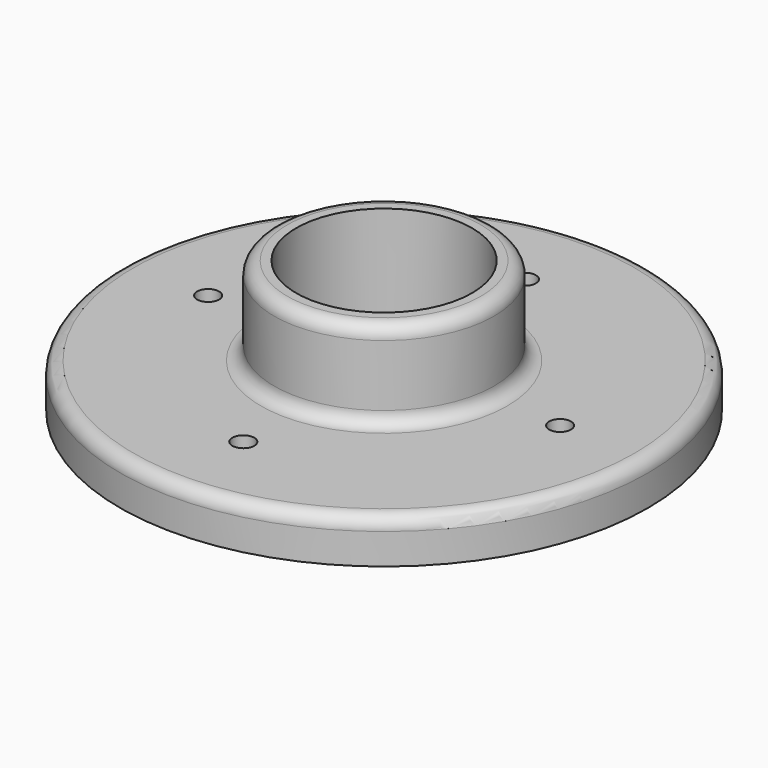
from build123d import *

# Parameters (mm, degrees)
F0_R     = 76.2
F0_R_2   = 25.4
F1_DEPTH = 12.7
F2_R     = 31.75
F2_R_2   = 25.4
F3_DEPTH = 38.1
F4_R     = 3.175
F5_DEPTH = 12.701
F6_R     = 3.81


with BuildPart() as f1:
    # F0 (on Top) → F1 (new body)
    with BuildSketch(Plane.XY):
        Circle(F0_R)
        Circle(F0_R_2, mode=Mode.SUBTRACT)
    extrude(amount=F1_DEPTH)

    # F2 (on Top) → F3 (join)
    with BuildSketch(Plane.XY):
        Circle(F2_R)
        Circle(F2_R_2, mode=Mode.SUBTRACT)
    extrude(amount=F3_DEPTH)

    # F4 (on face) → F5 (cut, through all)
    with BuildSketch(Plane.XY.offset(12.7)):
        with Locations((-50.8, 0)):
            Circle(F4_R)
        with Locations((0, -50.8)):
            Circle(F4_R)
        with Locations((50.8, 0)):
            Circle(F4_R)
        with Locations((0, 50.8)):
            Circle(F4_R)
    extrude(amount=-F5_DEPTH, mode=Mode.SUBTRACT)

    # F6
    f6_edges = [f1.edges().sort_by_distance(p)[0] for p in [
        (-76.2, 0, 12.7),
        (-31.75, 0, 38.1),
        (-31.75, 0, 12.7),
    ]]
    fillet(f6_edges, radius=F6_R)


solid = f1.part
